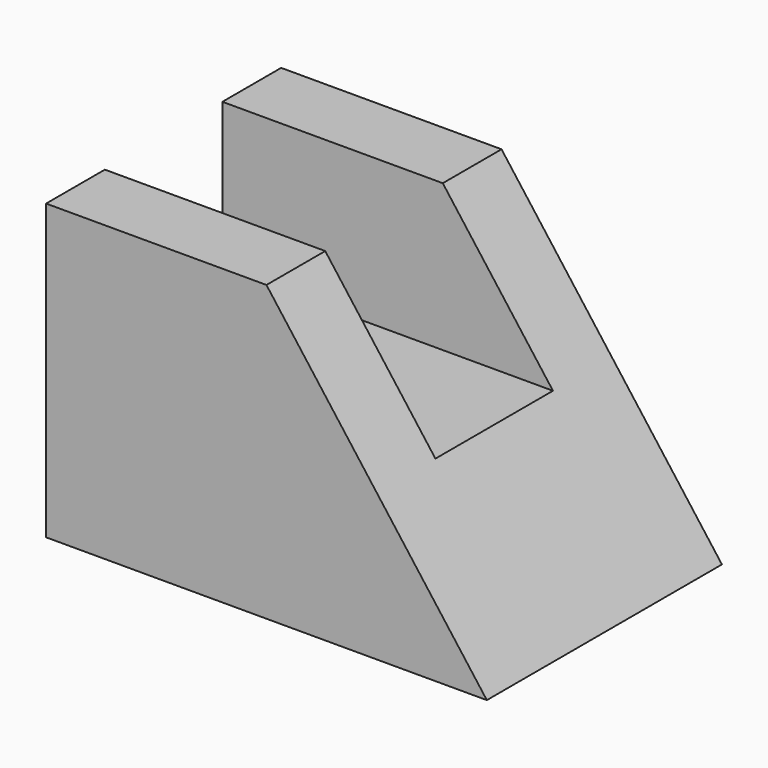
from build123d import *

# Parameters (mm, degrees)
F2_DEPTH = 38.1
F3_DEPTH = 25.401


with BuildPart() as f2:
    # F0 (on Right) → F2 (new body)
    with BuildSketch(Plane.YZ):
        Polygon((0, 25.4), (0, 0), (25.4, 0), (25.4, 25.4), (19.05, 25.4), (19.05, 12.7), (6.35, 12.7), (6.35, 25.4), align=None)
    extrude(amount=F2_DEPTH)

    # F1 (on Front) → F3 (cut, through all)
    with BuildSketch(Plane.XZ):
        Polygon((19.05, 25.4), (38.1, 0), (38.1, 25.4), align=None)
    extrude(amount=-F3_DEPTH, mode=Mode.SUBTRACT)


solid = f2.part
